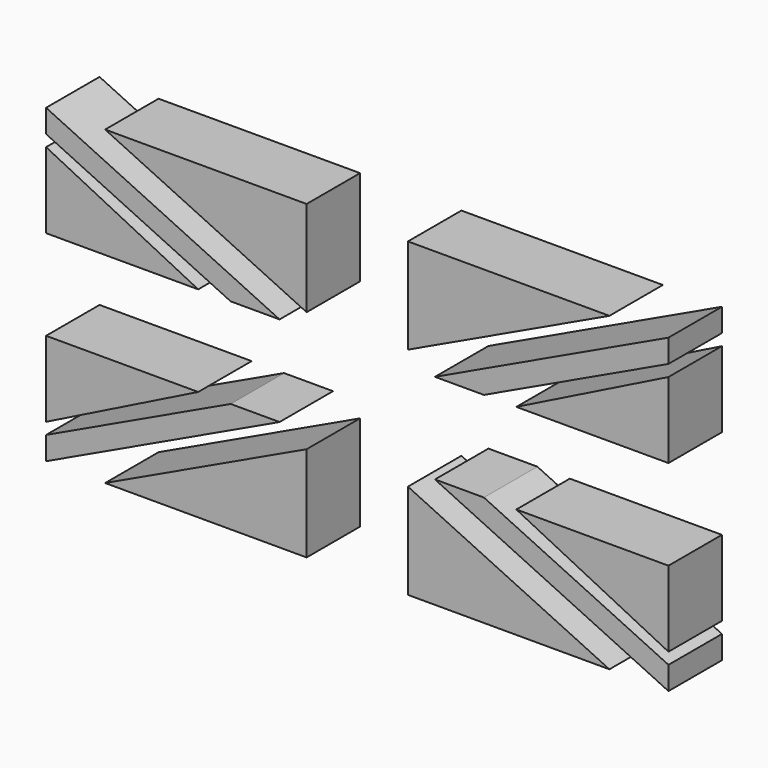
from build123d import *

# Parameters (mm, degrees)
F1_DEPTH = 25.4


with BuildPart() as f1:
    # F0 (on Front) → F1 (new body)
    with BuildSketch(Plane.XZ):
        Polygon((-36.389584, 27.621012), (-125.138506, 69.59758), (-125.138506, 60.800745), (-54.988284, 27.621012), align=None)
        Polygon((-26.110247, 33.373326), (-26.110247, 69.59758), (-102.697345, 69.59758), align=None)
        Polygon((-67.316747, 27.621012), (-125.138506, 56.418806), (-125.138506, 27.621012), align=None)
        Polygon((88.983523, 69.59758), (12.396425, 69.59758), (12.396425, 33.373326), align=None)
        Polygon((111.424685, 69.59758), (22.675762, 27.621012), (41.274462, 27.621012), (111.424685, 60.800745), align=None)
        Polygon((111.424685, 27.621012), (111.424685, 56.418806), (53.602925, 27.621012), align=None)
        Polygon((111.424685, -35.505243), (111.424685, -6.707449), (53.602925, -6.707449), align=None)
        Polygon((22.675762, -6.707449), (111.424685, -48.684016), (111.424685, -39.887181), (41.274462, -6.707449), align=None)
        Polygon((12.396425, -12.459762), (12.396425, -48.684016), (88.983523, -48.684016), align=None)
        Polygon((-26.110247, -48.684016), (-26.110247, -12.459762), (-102.697345, -48.684016), align=None)
        Polygon((-54.988284, -6.707449), (-125.138506, -39.887181), (-125.138506, -48.684016), (-36.389584, -6.707449), align=None)
        Polygon((-125.138506, -35.505243), (-67.316747, -6.707449), (-125.138506, -6.707449), align=None)
    extrude(amount=F1_DEPTH)


solid = f1.part
